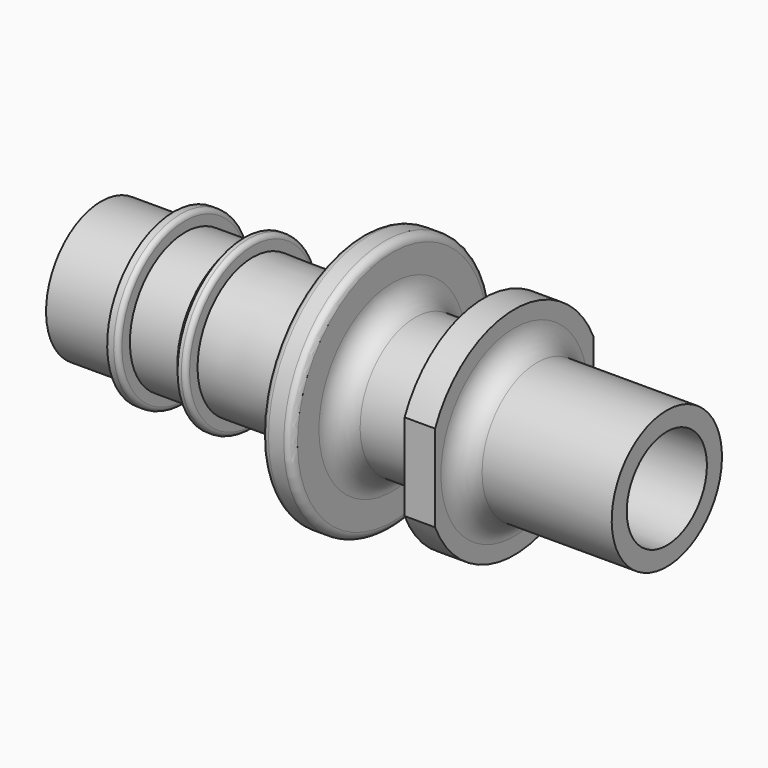
from build123d import *

# Parameters (mm, degrees)
F3_DEPTH = 4


with BuildPart() as f1:
    # F0 (on Front) → F1 (revolve)
    with BuildSketch(Plane.XZ):
        Polygon((-15.462983, 2.75), (-15.462983, 4.519392), (-15.962983, 3.653367), (-15.962983, 2.74279), align=None)
        with BuildLine():
            Line((-10.962983, 4.519392), (-15.462983, 4.519392))
            Line((-15.462983, 4.519392), (-15.462983, 2.75))
            Line((-15.462983, 2.75), (21.637017, 3.284971))
            Line((21.637017, 3.284971), (21.637017, 4.519392))
            Line((21.637017, 4.519392), (13.137017, 4.519392))
            ThreePointArc((13.137017, 4.519392), (12.076356, 4.958732), (11.637017, 6.019392))
            Line((11.637017, 6.019392), (11.637017, 7.097195))
            Line((11.637017, 7.097195), (9.637017, 7.097195))
            Line((9.637017, 7.097195), (9.637017, 6.019392))
            ThreePointArc((9.637017, 6.019392), (9.197677, 4.958732), (8.137017, 4.519392))
            Line((8.137017, 4.519392), (5.137017, 4.519392))
            ThreePointArc((5.137017, 4.519392), (4.076356, 4.958732), (3.637017, 6.019392))
            Line((3.637017, 6.019392), (3.637017, 7.780393))
            ThreePointArc((3.637017, 7.780393), (3.49057, 8.133947), (3.137017, 8.280393))
            Line((3.137017, 8.280393), (2.137017, 8.280393))
            ThreePointArc((2.137017, 8.280393), (1.783463, 8.133947), (1.637017, 7.780393))
            Line((1.637017, 7.780393), (1.637017, 6.009189))
            ThreePointArc((1.637017, 6.009189), (1.19672, 4.947573), (0.134313, 4.509191))
            Line((0.134313, 4.509191), (-5.525, 4.519392))
            Line((-5.525, 4.519392), (-5.525, 5.175))
            ThreePointArc((-5.525, 5.175), (-5.612868, 5.387132), (-5.825, 5.475))
            Line((-5.825, 5.475), (-6.073198, 5.475))
            Line((-6.073198, 5.475), (-6.525, 4.925))
            Line((-6.525, 4.925), (-6.525, 4.519392))
            Line((-6.525, 4.519392), (-9.962983, 4.519392))
            Line((-9.962983, 4.519392), (-9.962983, 5.175))
            ThreePointArc((-9.962983, 5.175), (-10.050851, 5.387132), (-10.262983, 5.475))
            Line((-10.262983, 5.475), (-10.69033, 5.475))
            Line((-10.69033, 5.475), (-10.962983, 4.925))
            Line((-10.962983, 4.925), (-10.962983, 4.519392))
        make_face()
    revolve(axis=Axis((2.837017, 0, 0), (1, 0, 0)))

    # F2 (on face) → F3 (cut)
    with BuildSketch(Plane.YZ.offset(11.637017)):
        with BuildLine():
            Line((-6.5, -2.849593), (-6.5, 2.849593))
            ThreePointArc((-6.5, 2.849593), (-7.097195, 0), (-6.5, -2.849593))
        make_face()
        with BuildLine():
            ThreePointArc((7.097195, 0), (6.946292, 1.455749), (6.5, 2.849593))
            Line((6.5, 2.849593), (6.5, -2.849593))
            ThreePointArc((6.5, -2.849593), (6.946292, -1.455749), (7.097195, 0))
        make_face()
    extrude(amount=-F3_DEPTH, mode=Mode.SUBTRACT)


solid = f1.part
